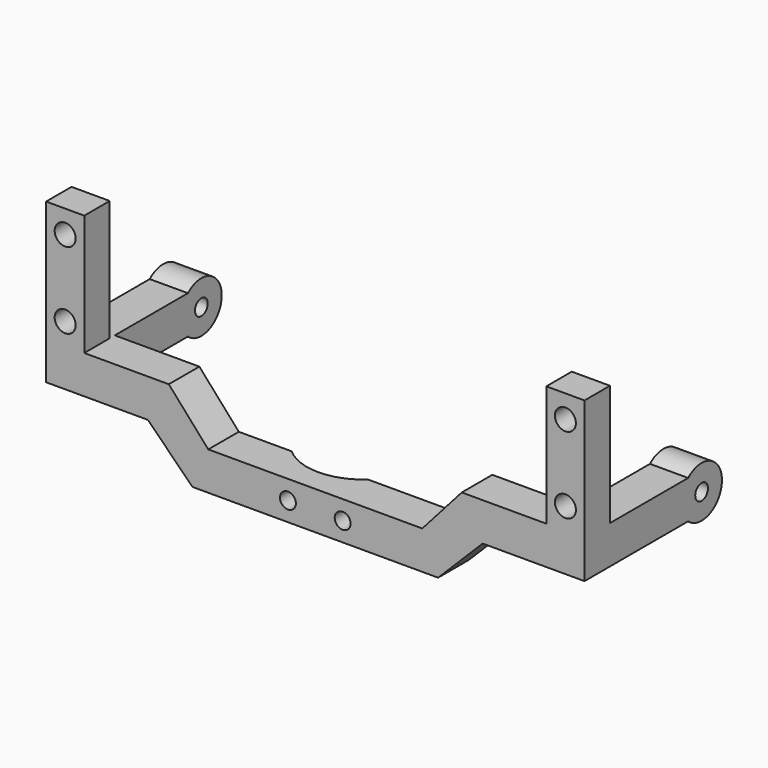
from build123d import *

# Parameters (mm, degrees)
F1_DEPTH  = 13
F2_W      = 10
F2_H      = 7
F3_DEPTH  = 6.001
F5_DEPTH  = 13.001
F6_R      = 1.25
F7_DEPTH  = 6.001
F8_R      = 1.25
F8_W      = 5
F8_H      = 19
F9_DEPTH  = 6
F10_R     = 1.65
F11_DEPTH = 27.001
F12_W     = 5
F12_H     = 19
F12_R     = 1.25
F13_DEPTH = 6
F14_R     = 1.65
F15_DEPTH = 27.001


with BuildPart() as f1:
    # F0 (on Top) → F1 (new body)
    with BuildSketch(Plane.XY):
        Polygon((38.8, 3), (-33.8, 3), (-33.8, -3), (-6, -3), (6, -3), (38.8, -3), align=None)
    extrude(amount=F1_DEPTH)

    # F2 (on face) → F3 (cut, through all)
    with BuildSketch(Plane(origin=(0, 3, 0), x_dir=(-1, 0, 0), z_dir=(0, 1, 0))):
        Polygon((-28.8, 7), (-28.8, 0), (-21.8, 0), align=None)
        with Locations((-33.8, 3.5)):
            Rectangle(F2_W, F2_H)
        Polygon((20.5147186258, 13), (-25.5147186258, 13), (-19.3147186258, 6), (14.3147186258, 6), align=None)
        Polygon((23.8, 7), (16.8, 0), (23.8, 0), align=None)
        with Locations((28.8, 3.5)):
            Rectangle(F2_W, F2_H)
    extrude(amount=-F3_DEPTH, mode=Mode.SUBTRACT)

    # F4 (on face) → F5 (cut, through all)
    with BuildSketch(Plane(origin=(0, 0, 0), x_dir=(1, 0, 0), z_dir=(0, 0, -1))):
        with BuildLine():
            Line((-6, -3), (6, -3))
            ThreePointArc((6, -3), (0, -0.7), (-6, -3))
        make_face()
    extrude(amount=-F5_DEPTH, mode=Mode.SUBTRACT)

    # F6 (on face) → F7 (cut, through all)
    with BuildSketch(Plane.XZ.offset(3)):
        with Locations((-1.8, 3)):
            Circle(F6_R)
        with Locations((6.8, 3)):
            Circle(F6_R)
    extrude(amount=-F7_DEPTH, mode=Mode.SUBTRACT)

    # F8 (on face) → F9 (join)
    with BuildSketch(Plane.YZ.offset(38.8)):
        with BuildLine():
            Line((3, 13), (3, 7))
            Line((3, 7), (17.3542486889, 7))
            ThreePointArc((17.3542486889, 7), (24, 10), (17.3542486889, 13))
            Line((17.3542486889, 13), (3, 13))
        make_face()
        with Locations((20, 10)):
            Circle(F8_R, mode=Mode.SUBTRACT)
        with Locations((-0.5, 22.5)):
            Rectangle(F8_W, F8_H)
        Polygon((-3, 13), (-3, 7), (3, 7), (3, 13), (2, 13), align=None)
    extrude(amount=F9_DEPTH)

    # F10 (on face) → F11 (cut, through all)
    with BuildSketch(Plane.XZ.offset(3)):
        with Locations((41.8, 16.4)):
            Circle(F10_R)
        with Locations((41.8, 28.4)):
            Circle(F10_R)
    extrude(amount=-F11_DEPTH, mode=Mode.SUBTRACT)

    # F12 (on face) → F13 (join)
    with BuildSketch(Plane(origin=(-33.8, 0, 0), x_dir=(0, -1, 0), z_dir=(-1, 0, 0))):
        with Locations((0.5, 22.5)):
            Rectangle(F12_W, F12_H)
        with BuildLine():
            Line((-17.3542486889, 7), (-3, 7))
            Line((-3, 7), (-3, 13))
            Line((-3, 13), (-17.3542486889, 13))
            ThreePointArc((-17.3542486889, 13), (-24, 10), (-17.3542486889, 7))
        make_face()
        with Locations((-20, 10)):
            Circle(F12_R, mode=Mode.SUBTRACT)
        Polygon((3, 7), (3, 13), (-2, 13), (-3, 13), (-3, 7), align=None)
    extrude(amount=F13_DEPTH)

    # F14 (on face) → F15 (cut, through all)
    with BuildSketch(Plane.XZ.offset(3)):
        with Locations((-36.8, 28.4)):
            Circle(F14_R)
        with Locations((-36.8, 16.4)):
            Circle(F14_R)
    extrude(amount=-F15_DEPTH, mode=Mode.SUBTRACT)


solid = f1.part
